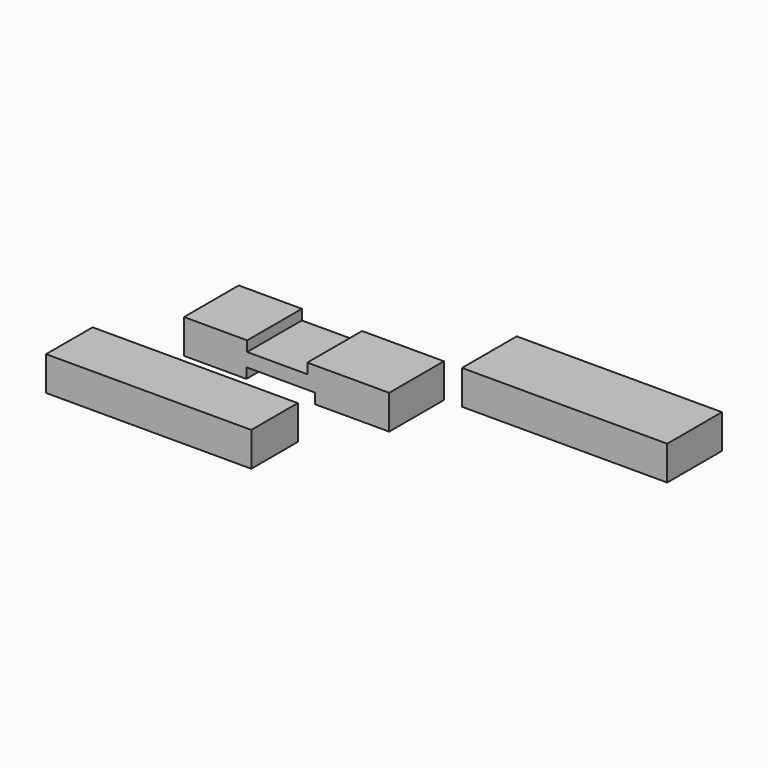
from build123d import *

# Parameters (mm, degrees)
F0_W     = 152.4
F0_H     = 50.8
F1_DEPTH = 25.4
F2_W     = 44.685319
F2_H     = 50.8
F3_DEPTH = 7.62
F4_W     = 152.4
F4_H     = 43.18
F5_DEPTH = 25.4
F6_W     = 50.8
F6_H     = 50.8
F7_DEPTH = 7.62
F8_W     = 152.4
F8_H     = 50.8
F9_DEPTH = 25.4


with BuildPart() as f1:
    # F0 (on Top) → F1 (new body)
    with BuildSketch(Plane.XY):
        with Locations((-35.334655, -25.4)):
            Rectangle(F0_W, F0_H)
    extrude(amount=F1_DEPTH)

    # F2 (on face) → F3 (cut)
    with BuildSketch(Plane.XY.offset(25.4)):
        with Locations((-42.275101, -25.4)):
            Rectangle(F2_W, F2_H)
    extrude(amount=-F3_DEPTH, mode=Mode.SUBTRACT)

    # F6 (on face) → F7 (cut)
    with BuildSketch(Plane(origin=(0, 0, 0), x_dir=(1, 0, 0), z_dir=(0, 0, -1))):
        with Locations((-39.798928, 25.4)):
            Rectangle(F6_W, F6_H)
    extrude(amount=-F7_DEPTH, mode=Mode.SUBTRACT)


with BuildPart() as f5:
    # F4 (on Top) → F5 (new body)
    with BuildSketch(Plane.XY):
        with Locations((-68.671166, -115.578592)):
            Rectangle(F4_W, F4_H)
    extrude(amount=F5_DEPTH)


with BuildPart() as f9:
    # F8 (on Top) → F9 (new body)
    with BuildSketch(Plane.XY):
        with Locations((130.50212, 25.4)):
            Rectangle(F8_W, F8_H)
    extrude(amount=F9_DEPTH)


solid = Compound([f1.part, f5.part, f9.part])
